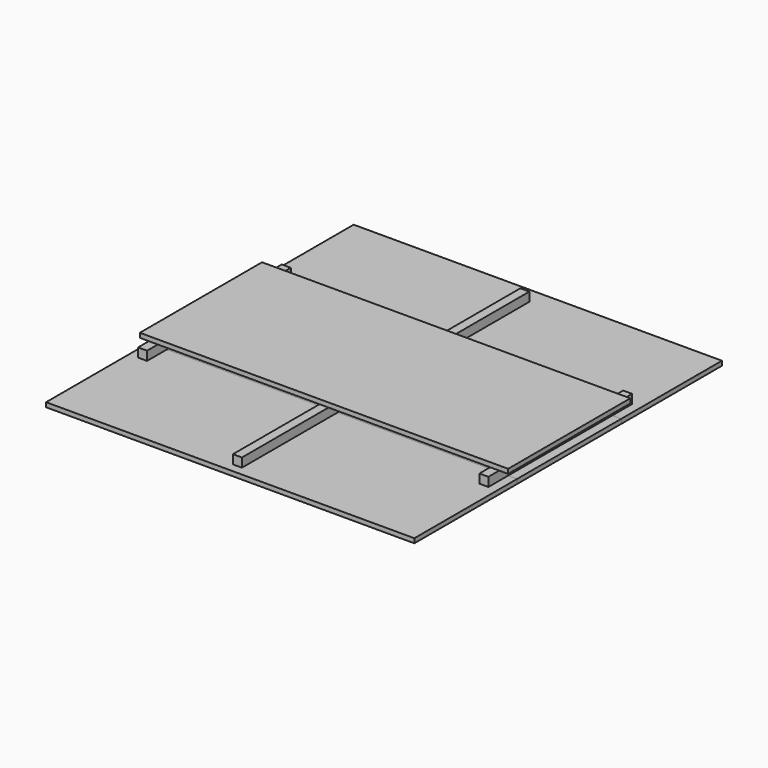
from build123d import *

# Parameters (mm, degrees)
F0_W     = 410
F0_H     = 140
F1_DEPTH = 5
F2_DEPTH = 145
F3_DEPTH = 143
F4_W     = 10
F4_H     = 400
F5_DEPTH = 10
F4_H_2   = 200
F6_W     = 410
F6_H     = 170
F7_DEPTH = 5


with BuildPart() as f1:
    # F0 (on Top) → F1 (new body)
    with BuildSketch(Plane.XY):
        Rectangle(F0_W, F0_H)
    extrude(amount=F1_DEPTH)


with BuildPart() as f2:
    # F2 (new): a face of the model
    f2_faces = [f1.part.faces().sort_by_distance(p)[0] for p in [
        (0, -70, 2.5),
    ]]
    extrude(f2_faces, amount=F2_DEPTH)


with BuildPart() as f3:
    # F3 (new): a face of the model
    f3_faces = [f2.part.faces().sort_by_distance(p)[0] for p in [
        (0, -215, 2.5),
    ]]
    extrude(f3_faces, amount=F3_DEPTH)


with BuildPart() as f5:
    # F4 (on face) → F5 (new body)
    with BuildSketch(Plane.XY.offset(5)):
        with Locations((0, -148)):
            Rectangle(F4_W, F4_H)
    extrude(amount=F5_DEPTH)


with BuildPart() as f5b:
    # F4 (on face) → F5, piece 2 (new body)
    with BuildSketch(Plane.XY.offset(5)):
        with Locations((190, -142.5)):
            Rectangle(F4_W, F4_H_2)
    extrude(amount=F5_DEPTH)


with BuildPart() as f5c:
    # F4 (on face) → F5, piece 3 (new body)
    with BuildSketch(Plane.XY.offset(5)):
        with Locations((-190, -142.5)):
            Rectangle(F4_W, F4_H_2)
    extrude(amount=F5_DEPTH)


with BuildPart() as f7:
    # F6 (on face) → F7 (new body)
    with BuildSketch(Plane.XY.offset(15)):
        with Locations((0, -142.5)):
            Rectangle(F6_W, F6_H)
    extrude(amount=F7_DEPTH)


solid = Compound([f1.part, f2.part, f3.part, f5.part, f5b.part, f5c.part, f7.part])
